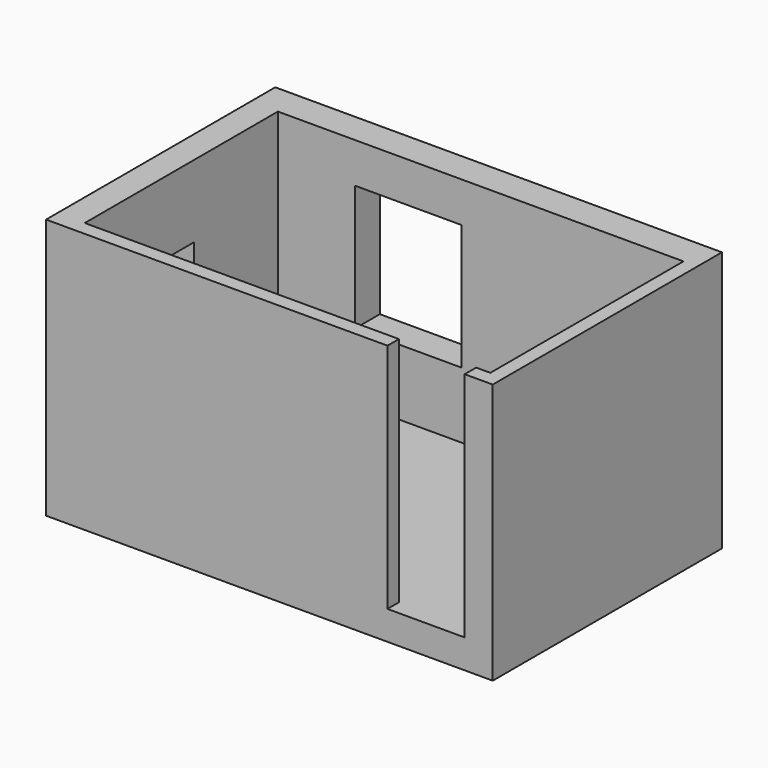
from build123d import *

# Parameters (mm, degrees)
F0_W     = 4625.674248
F0_H     = 2966.676712
F1_DEPTH = 300
F3_DEPTH = 2400
F4_W     = 1100
F4_H     = 1300
F5_DEPTH = 318.401337
F6_W     = 1400
F6_H     = 500
F7_DEPTH = 282.073784
F8_W     = 38.916
F8_H     = 725.931168
F9_DEPTH = 2000


with BuildPart() as f1:
    # F0 (on Top) → F1 (new body)
    with BuildSketch(Plane.XY):
        with Locations((8895.790577, 20623.942375)):
            Rectangle(F0_W, F0_H)
    extrude(amount=-F1_DEPTH)

    # F2 (on face) → F3 (join)
    with BuildSketch(Plane.XY):
        Polygon((6865.027237, 19288.879395), (6865.027237, 21788.879395), (11065.027237, 21788.879395), (11065.027237, 19288.879395), (10918.38913, 19288.879395), (10918.38913, 19140.604019), (11208.627701, 19140.604019), (11208.627701, 22107.280731), (6582.953453, 22107.280731), (6582.953453, 19140.604019), (10118.38913, 19140.604019), (10118.38913, 19288.879395), align=None)
    extrude(amount=F3_DEPTH)

    # F4 (on face) → F5 (cut, through all)
    with BuildSketch(Plane(origin=(0, 22107.280731, 0), x_dir=(-1, 0, 0), z_dir=(0, 1, 0))):
        with Locations((-8215.964586, 1333.770603)):
            Rectangle(F4_W, F4_H)
    extrude(amount=-F5_DEPTH, mode=Mode.SUBTRACT)

    # F6 (on face) → F7 (cut, through all)
    with BuildSketch(Plane(origin=(6582.953453, 0, 0), x_dir=(0, -1, 0), z_dir=(-1, 0, 0))):
        with Locations((-20004.098129, 1399.97381)):
            Rectangle(F6_W, F6_H)
    extrude(amount=-F7_DEPTH, mode=Mode.SUBTRACT)

    # F8 (on face) → F9 (join)
    with BuildSketch(Plane.XY):
        with Locations((10898.93113, 19708.90522)):
            Rectangle(F8_W, F8_H)
    extrude(amount=F9_DEPTH)


solid = f1.part
